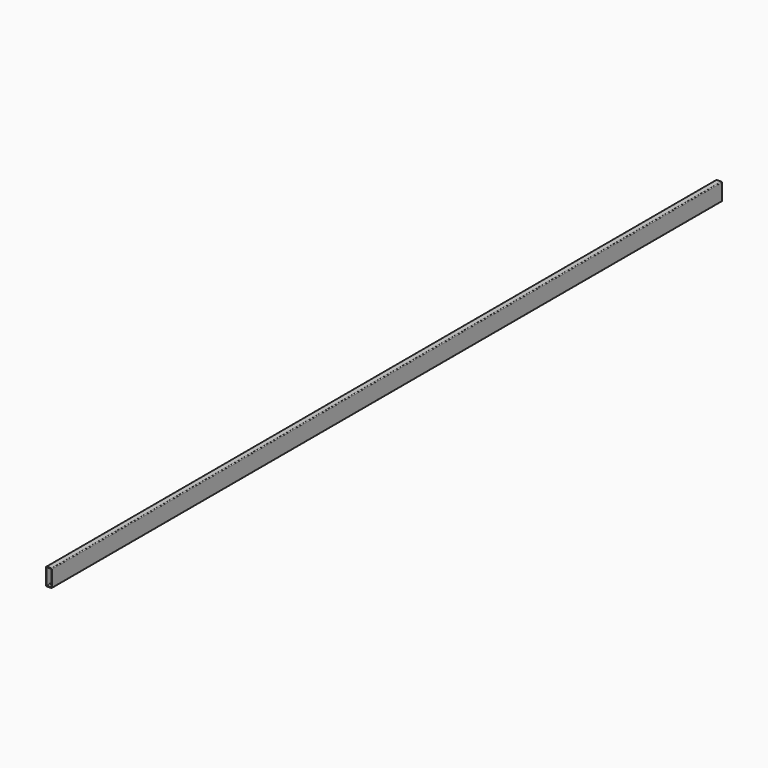
from build123d import *

# Parameters (mm, degrees)
F1_DEPTH = 7315.2


with BuildPart() as f1:
    # F0 (on Front) → F1 (new body)
    with BuildSketch(Plane.XZ):
        with BuildLine():
            ThreePointArc((25.4, 69.85), (23.540128, 74.340128), (19.05, 76.2))
            Line((19.05, 76.2), (-19.05, 76.2))
            ThreePointArc((-19.05, 76.2), (-23.540128, 74.340128), (-25.4, 69.85))
            Line((-25.4, 69.85), (-25.4, -69.85))
            ThreePointArc((-25.4, -69.85), (-23.540128, -74.340128), (-19.05, -76.2))
            Line((-19.05, -76.2), (19.05, -76.2))
            ThreePointArc((19.05, -76.2), (23.540128, -74.340128), (25.4, -69.85))
            Line((25.4, -69.85), (25.4, 69.85))
        make_face()
        with BuildLine():
            Line((-15.875, 71.4375), (15.875, 71.4375))
            ThreePointArc((15.875, 71.4375), (19.242596, 70.042596), (20.6375, 66.675))
            Line((20.6375, 66.675), (20.6375, -66.675))
            ThreePointArc((20.6375, -66.675), (19.242596, -70.042596), (15.875, -71.4375))
            Line((15.875, -71.4375), (-15.875, -71.4375))
            ThreePointArc((-15.875, -71.4375), (-19.242596, -70.042596), (-20.6375, -66.675))
            Line((-20.6375, -66.675), (-20.6375, 66.675))
            ThreePointArc((-20.6375, 66.675), (-19.242596, 70.042596), (-15.875, 71.4375))
        make_face(mode=Mode.SUBTRACT)
    extrude(amount=F1_DEPTH)


solid = f1.part
